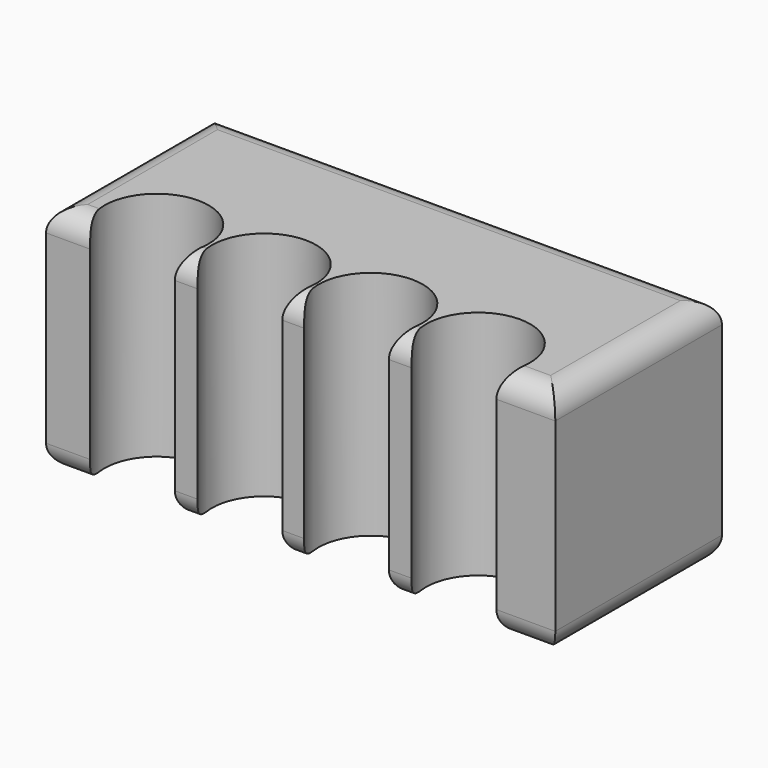
from build123d import *

# Parameters (mm, degrees)
F0_W     = 110
F0_H     = 50
F1_DEPTH = 45
F2_R     = 5
F3_R     = 11.25
F4_DEPTH = 50
F5_DEPTH = 25


with BuildPart() as f1:
    # F0 (on Front) → F1 (new body)
    with BuildSketch(Plane.XZ):
        with Locations((21.923708, -2.648987)):
            Rectangle(F0_W, F0_H)
    extrude(amount=F1_DEPTH)

    # F2
    f2_edges = [f1.edges().sort_by_distance(p)[0] for p in [
        (76.923708, -22.5, 22.351013),
        (-33.076292, -22.5, 22.351013),
        (21.923708, 0, 22.351013),
        (21.923708, -45, 22.351013),
        (-33.076292, -22.5, -27.648987),
        (76.923708, -22.5, -27.648987),
        (21.923708, 0, -27.648987),
        (21.923708, -45, -27.648987),
    ]]
    fillet(f2_edges, radius=F2_R)

    # F3 (on Top) → F4 (cut)
    with BuildSketch(Plane.XY):
        with Locations((-14.420521, -38.467415)):
            Circle(F3_R)
        with Locations((8.798155, -38.467415)):
            Circle(F3_R)
        with Locations((31.823341, -38.467415)):
            Circle(F3_R)
        with Locations((55.042014, -38.467415)):
            Circle(F3_R)
    extrude(amount=-F4_DEPTH, mode=Mode.SUBTRACT)

    # F3 (on Top) → F5 (cut)
    with BuildSketch(Plane.XY):
        with Locations((-14.420521, -38.467415)):
            Circle(F3_R)
        with Locations((8.798155, -38.467415)):
            Circle(F3_R)
        with Locations((31.823341, -38.467415)):
            Circle(F3_R)
        with Locations((55.042014, -38.467415)):
            Circle(F3_R)
    extrude(amount=F5_DEPTH, mode=Mode.SUBTRACT)


solid = f1.part
